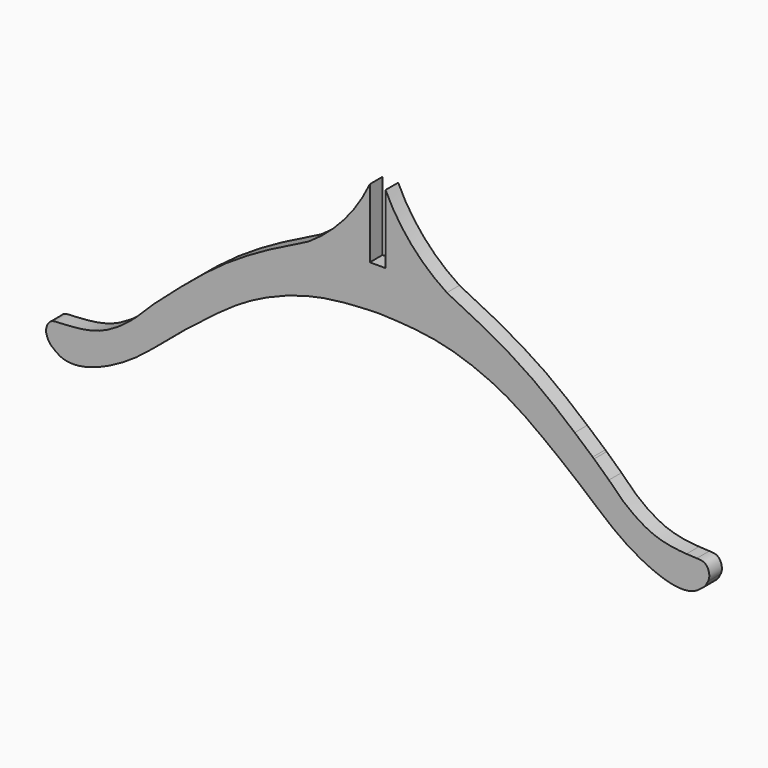
from build123d import *

# Parameters (mm, degrees)
F1_DEPTH = 19.05


with BuildPart() as f1:
    # F0 (on Front) → F1 (new body)
    with BuildSketch(Plane.XZ):
        with BuildLine():
            add(Edge.make_bspline(
                [(201.1767884, -300.8261446), (184.9446500534, -288.5658852623), (151.5960073648, -264.6099305864), (76.2573328646, -234.9823842439), (25.2802629963, -232.9860444502), (0, -231.9960308)],
                knots=[0.7956658793, 0.7956658793, 0.7956658793, 0.7956658793, 0.8584064197, 0.9297817046, 1, 1, 1, 1], degree=3))
            add(Edge.make_bspline(
                [(220.0150597273, -315.3235888459), (213.7025220602, -310.3714978448), (207.3933538917, -305.5215644818), (201.1767884, -300.8261446)],
                knots=[0.77163758, 0.77163758, 0.77163758, 0.77163758, 0.7956658793, 0.7956658793, 0.7956658793, 0.7956658793], degree=3))
            add(Edge.make_bspline(
                [(397.0120584, -393.1505726), (395.3708490631, -395.2457378626), (390.011322032, -399.5808906426), (380.0115519443, -406.5406125315), (351.9855957721, -407.6222448349), (297.2044874536, -381.6106983888), (257.944283078, -345.8007215316), (230.6011728268, -323.628235595), (220.0150597273, -315.3235888459)],
                knots=[0.513854549, 0.513854549, 0.513854549, 0.513854549, 0.5380515922, 0.5651554057, 0.6057045111, 0.66765074, 0.7313421699, 0.77163758, 0.77163758, 0.77163758, 0.77163758], degree=3))
            Line((397.0120584, -393.1505726), (399.8402214, -387.8452238))
            add(Edge.make_bspline(
                [(386.1194208, -367.8844814), (389.6455847643, -367.9912675333), (397.6732833167, -368.0686782786), (402.5019948542, -380.8189659711), (400.6573958887, -385.8008396085), (399.8402214, -387.8452238)],
                knots=[0.4191401669, 0.4191401669, 0.4191401669, 0.4191401669, 0.4451745467, 0.4725765555, 0.4941715255, 0.4941715255, 0.4941715255, 0.4941715255], degree=3))
            add(Edge.make_bspline(
                [(373.6825902, -367.2068856), (378.900938604, -367.5702793856), (382.2822511949, -367.768276791), (386.1194208, -367.8844814)],
                knots=[0.3908095697, 0.3908095697, 0.3908095697, 0.3908095697, 0.4191401669, 0.4191401669, 0.4191401669, 0.4191401669], degree=3))
            add(Edge.make_bspline(
                [(279.807416, -319.0291562), (285.6374728202, -324.78648177), (293.8393078661, -334.4991173683), (332.6518626222, -364.1000029741), (364.3721775764, -366.5585298701), (373.6825902, -367.2068856)],
                knots=[0.2479156808, 0.2479156808, 0.2479156808, 0.2479156808, 0.2850347467, 0.3402630118, 0.3908095697, 0.3908095697, 0.3908095697, 0.3908095697], degree=3))
            Line((279.807416, -319.0291562), (261.8557955932, -302.3865227172))
            add(Edge.make_bspline(
                [(260.2359541375, -300.9446355495), (260.7803675647, -301.4282060573), (261.3204290689, -301.90892661), (261.8557955932, -302.3865227172)],
                knots=[0.2161268544, 0.2161268544, 0.2161268544, 0.2161268544, 0.2183663583, 0.2183663583, 0.2183663583, 0.2183663583], degree=3))
            Line((260.2359541375, -300.9446355495), (238.4074734, -281.9741884))
            add(Edge.make_bspline(
                [(83.6874247, -183.1908833), (97.5197157676, -189.9352109388), (127.5051512234, -204.555464382), (184.795648166, -237.3355034822), (220.351153613, -266.5590936308), (238.4074734, -281.9741884)],
                knots=[0, 0, 0, 0, 0.0556514974, 0.1206404908, 0.1880794642, 0.1880794642, 0.1880794642, 0.1880794642], degree=3))
            ThreePointArc((83.6874247, -183.1908833), (40.6034022536, -145.7470223732), (9.525, -97.8679181144))
            Line((9.525, -97.8679181144), (9.525, -181.1960308))
            Line((9.525, -181.1960308), (-9.525, -181.1960308))
            Line((-9.525, -181.1960308), (-9.525, -97.8679181144))
            ThreePointArc((-9.525, -97.8679181144), (-40.6034022536, -145.7470223732), (-83.6874247, -183.1908833))
            add(Edge.make_bspline(
                [(-83.6874247, -183.1908833), (-97.5197157676, -189.9352109388), (-127.5051512234, -204.555464382), (-184.795648166, -237.3355034822), (-236.4165435406, -279.7634726692), (-280.3231148063, -318.4932044072), (-293.8393078661, -334.4991173683), (-332.6518626222, -364.1000029741), (-372.8681073339, -367.2170186602), (-385.3895057177, -367.9502263496), (-397.6732833167, -368.0686782786), (-402.5019948542, -380.8189659711), (-399.9163852042, -387.8021535325), (-397.4271830775, -393.5824339801), (-390.011322032, -399.5808906426), (-380.0115519443, -406.5406125315), (-351.9855957721, -407.6222448349), (-297.2044874536, -381.6106983888), (-252.2591237089, -340.6151798699), (-200.9390966066, -300.0554754166), (-151.5960073648, -264.6099305864), (-76.2573328646, -234.9823842439), (-25.2802629963, -232.9860444502), (0, -231.9960308)],
                knots=[0, 0, 0, 0, 0.0556514974, 0.1206404908, 0.1880794642, 0.2479156808, 0.2850347467, 0.3402630118, 0.3908095697, 0.4191401669, 0.4451745467, 0.4725765555, 0.4941715255, 0.513854549, 0.5380515922, 0.5651554057, 0.6057045111, 0.66765074, 0.7313421699, 0.7956658793, 0.8584064197, 0.9297817046, 1, 1, 1, 1], degree=3))
        make_face()
    extrude(amount=F1_DEPTH)


solid = f1.part
